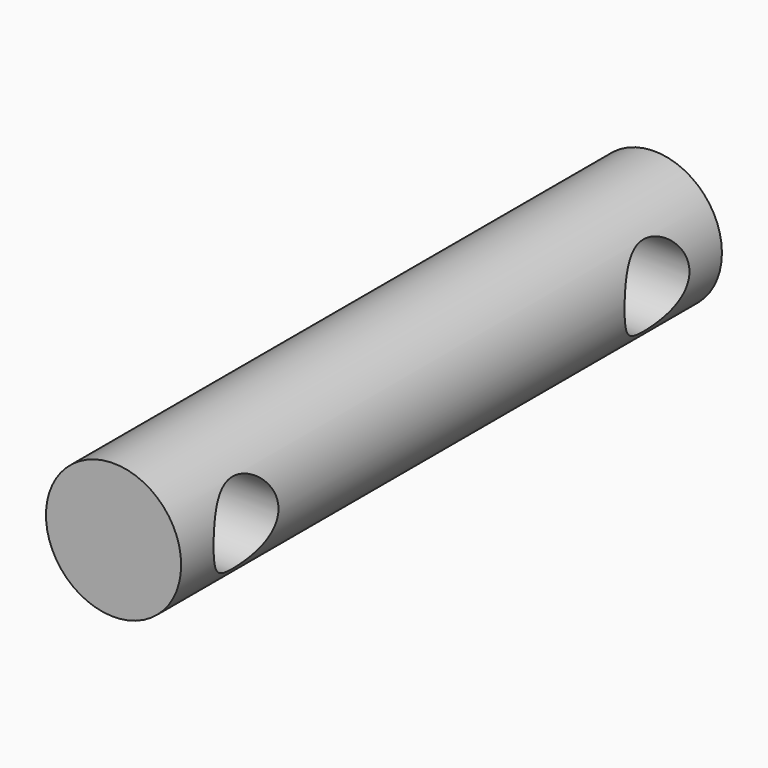
from build123d import *

# Parameters (mm, degrees)
F0_R          = 2.5
F1_DEPTH      = 25
F2_R          = 1.5
F3_DEPTH      = 5
F3_DEPTH_BACK = 5


with BuildPart() as f1:
    # F0 (on Front) → F1 (new body)
    with BuildSketch(Plane.XZ):
        Circle(F0_R)
    extrude(amount=F1_DEPTH)

    # F2 (on Right) → F3 (cut, two sides)
    with BuildSketch(Plane.YZ) as f3_sk:
        with Locations((-3, 0)):
            Circle(F2_R)
        with Locations((-22, 0)):
            Circle(F2_R)
    extrude(amount=F3_DEPTH, mode=Mode.SUBTRACT)
    extrude(f3_sk.sketch, amount=-F3_DEPTH_BACK, mode=Mode.SUBTRACT)


solid = f1.part
